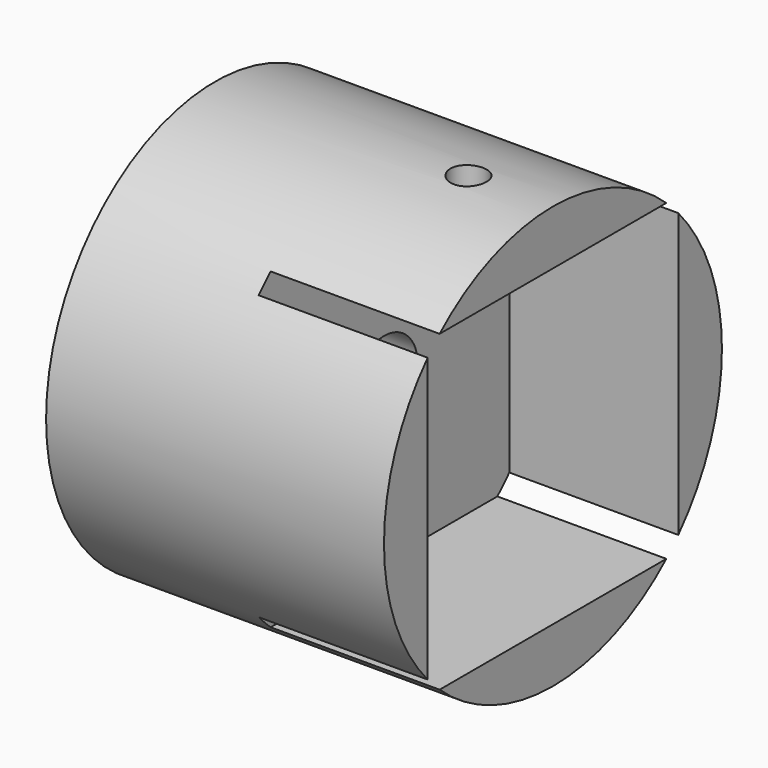
from build123d import *

# Parameters (mm, degrees)
F0_R     = 15.875
F1_DEPTH = 25.4
F2_W     = 23.5458
F2_H     = 23.5458
F3_DEPTH = 12.7
F4_R     = 3.175
F5_DEPTH = 23.0124
F6_R     = 1.8288
F7_DEPTH = 12.701
F8_R     = 1.35255
F9_DEPTH = 4.1031


with BuildPart() as f1:
    # F0 (on Right) → F1 (new body)
    with BuildSketch(Plane.YZ):
        Circle(F0_R)
    extrude(amount=F1_DEPTH)

    # F2 (on face) → F3 (cut)
    with BuildSketch(Plane.YZ.offset(25.4)):
        Rectangle(F2_W, F2_H)
    extrude(amount=-F3_DEPTH, mode=Mode.SUBTRACT)

    # F4 (on face) → F5 (cut)
    with BuildSketch(Plane.YZ.offset(25.4)):
        Circle(F4_R)
    extrude(amount=-F5_DEPTH, mode=Mode.SUBTRACT)

    # F6 (on face) → F7 (cut, through all)
    with BuildSketch(Plane.YZ.offset(12.7)):
        Circle(F6_R)
    extrude(amount=-F7_DEPTH, mode=Mode.SUBTRACT)

    # F8 (on face) → F9 (cut, through all)
    with BuildSketch(Plane(origin=(0, 0, 11.7729), x_dir=(1, 0, 0), z_dir=(0, 0, -1))):
        with Locations((19.05, 0)):
            Circle(F8_R)
    extrude(amount=-F9_DEPTH, mode=Mode.SUBTRACT)


solid = f1.part
